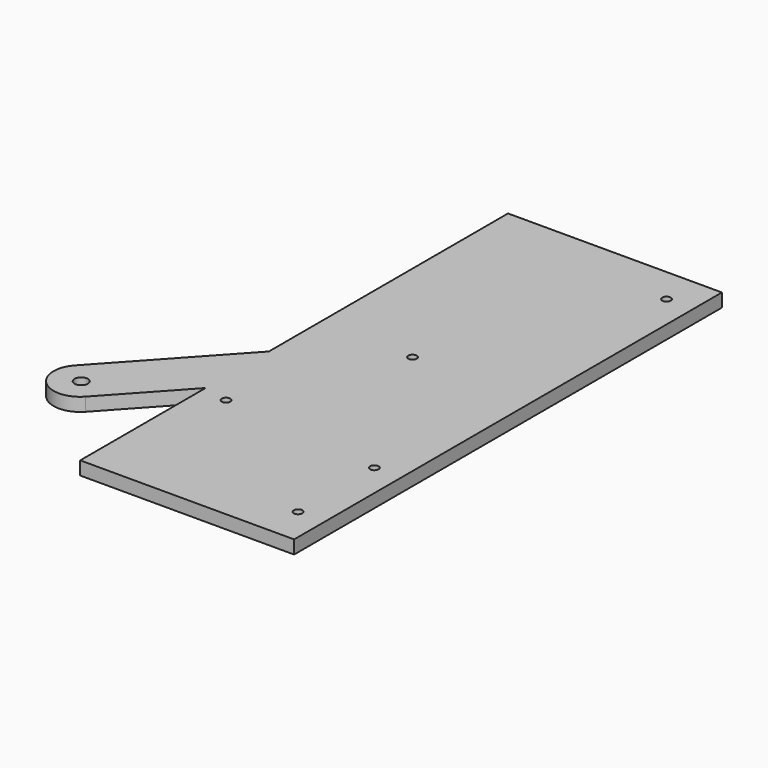
from build123d import *

# Parameters (mm, degrees)
F0_W     = 200
F0_H     = 300
F1_DEPTH = 5
F2_R     = 1.5875
F3_DEPTH = 5.001
F4_R     = 1.5875
F5_DEPTH = 25
F7_DEPTH = 5
F8_R     = 2.5
F9_DEPTH = 25


with BuildPart() as f1:
    # F0 (on Top) → F1 (new body)
    with BuildSketch(Plane.XY):
        Rectangle(F0_W, F0_H)
    extrude(amount=F1_DEPTH)

    # F2 (on face) → F3 (cut, through all)
    with BuildSketch(Plane.XY.offset(5)):
        Circle(F2_R)
        with Locations((0, -35.650707)):
            Circle(F2_R)
        with Locations((-60.544926, 6.347642)):
            Circle(F2_R)
        with Locations((-35, 61.605559)):
            Circle(F2_R)
        with Locations((0, 136.605559)):
            Circle(F2_R)
    extrude(amount=-F3_DEPTH, mode=Mode.SUBTRACT)

    # F4 (on face) → F5 (cut)
    with BuildSketch(Plane.XY.offset(5)):
        Polygon((-70, -50), (-70, 150), (-100, 150), (-100, -150), (100, -150), (100, 150), (10, 150), (10, -50), align=None)
        Circle(F4_R)
        with Locations((0, -35.650707)):
            Circle(F4_R)
        with Locations((-60.544926, 6.347642)):
            Circle(F4_R)
        with Locations((-35, 61.605559)):
            Circle(F4_R)
        with Locations((0, 136.605559)):
            Circle(F4_R)
    extrude(amount=-F5_DEPTH, mode=Mode.SUBTRACT)

    # F6 (on face) → F7 (join)
    with BuildSketch(Plane.XY.offset(5)):
        with BuildLine():
            ThreePointArc((-33.4125, 61.605559), (-33.877468, 60.483027), (-35, 60.018059))
            Line((-35, 60.018059), (-35, 46.803687))
            Line((-35, 46.803687), (0, 84.999484))
            Line((0, 84.999484), (0, 99.801357))
            Line((0, 99.801357), (-33.927501, 62.775987))
            ThreePointArc((-33.927501, 62.775987), (-33.546943, 62.244919), (-33.4125, 61.605559))
        make_face()
        with BuildLine():
            Line((-35, 46.803687), (-35, 60.018059))
            ThreePointArc((-35, 60.018059), (-35.341033, 60.055123), (-35.666142, 60.164583))
            Line((-35.666142, 60.164583), (-48.809552, 31.733206))
            Line((-48.809552, 31.733206), (-35, 46.803687))
        make_face()
        with BuildLine():
            ThreePointArc((-36.072499, 60.435131), (-36.170428, 62.678058), (-33.927501, 62.775987))
            Line((-33.927501, 62.775987), (0, 99.801357))
            Line((0, 99.801357), (0, 109.801357))
            ThreePointArc((0, 109.801357), (-4.027467, 108.954471), (-7.372773, 106.557259))
            Line((-7.372773, 106.557259), (-108.711305, -4.034342))
            ThreePointArc((-108.711305, -4.034342), (-108.094433, -18.163017), (-93.965758, -17.546146))
            Line((-93.965758, -17.546146), (-48.809552, 31.733206))
            Line((-48.809552, 31.733206), (-35.666142, 60.164583))
            ThreePointArc((-35.666142, 60.164583), (-35.879783, 60.284144), (-36.072499, 60.435131))
        make_face()
        with BuildLine():
            Line((0, 109.801357), (0, 99.801357))
            Line((0, 99.801357), (0, 84.999484))
            Line((0, 84.999484), (7.372773, 93.045455))
            ThreePointArc((7.372773, 93.045455), (9.153115, 103.828823), (0, 109.801357))
        make_face()
    extrude(amount=-F7_DEPTH)

    # F8 (on face) → F9 (cut)
    with BuildSketch(Plane.XY.offset(5)):
        with Locations((-101.016482, -10.755953)):
            Circle(F8_R)
    extrude(amount=-F9_DEPTH, mode=Mode.SUBTRACT)


solid = f1.part
